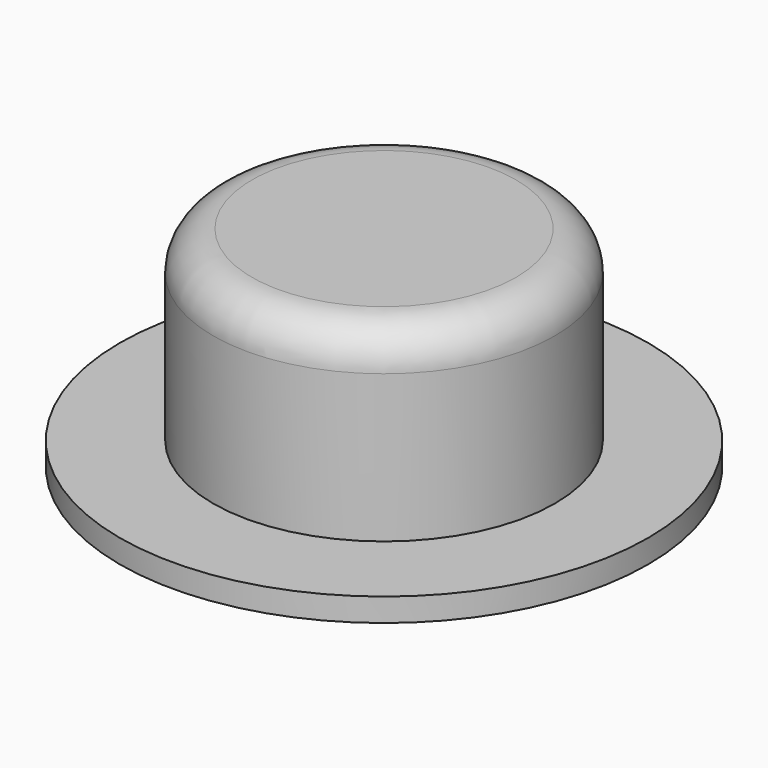
from build123d import *

# Parameters (mm, degrees)
SKETCH_R     = 6.8
PAD_DEPTH    = 0.6
SKETCH001_R  = 4.4
PAD001_DEPTH = 4.8
SKETCH002_R  = 1.75
POCKET_DEPTH = 5
FILLET_R     = 1


with BuildPart() as part:
    # Sketch → Pad (new body)
    with BuildSketch(Plane.XY):
        Circle(SKETCH_R)
    extrude(amount=PAD_DEPTH)

    # Sketch001 (on Face3 of Pad) → Pad001 (join)
    with BuildSketch(Plane.XY.offset(0.6)):
        Circle(SKETCH001_R)
    extrude(amount=PAD001_DEPTH)

    # Sketch002 (on Face2 of Pad001) → Pocket (cut)
    with BuildSketch(Plane(origin=(0, 0, 0), x_dir=(1, 0, 0), z_dir=(0, 0, -1))):
        Circle(SKETCH002_R)
    extrude(amount=-POCKET_DEPTH, mode=Mode.SUBTRACT)

    # Fillet
    fillet_edges = [part.edges().sort_by_distance(p)[0] for p in [
        (-4.4, 0, 5.4),
    ]]
    fillet(fillet_edges, radius=FILLET_R)


solid = part.part
